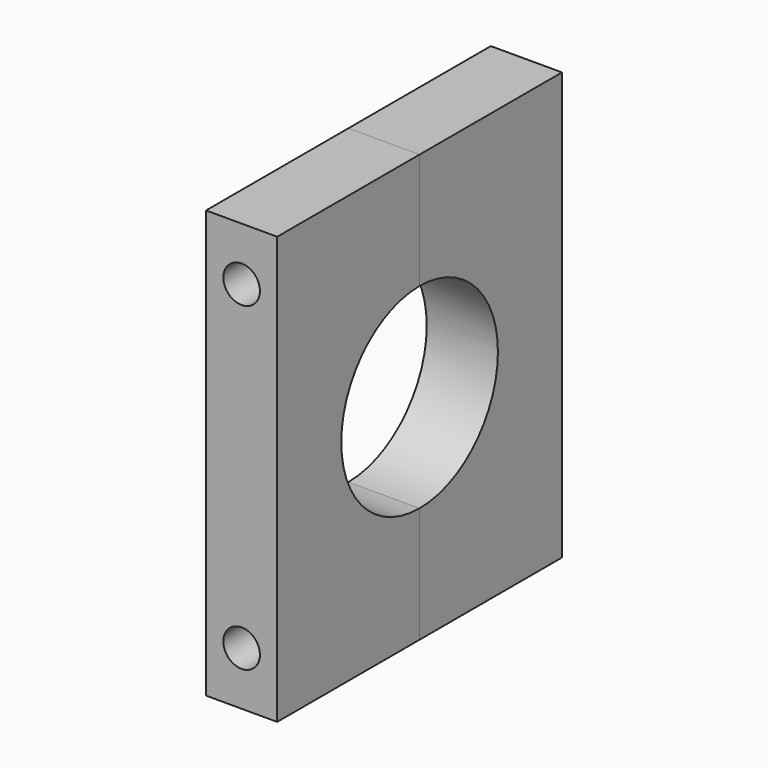
from build123d import *

# Parameters (mm, degrees)
F1_DEPTH = 6.35
F3_D     = 6.5278
F4_DEPTH = 6.35
F6_D     = 6.5278


with BuildPart() as f1:
    # F0 (on Right) → F1 (new body, symmetric)
    with BuildSketch(Plane.YZ):
        with BuildLine():
            ThreePointArc((0, 17.4625), (12.3478521665, 12.3478521665), (17.4625, 0))
            ThreePointArc((17.4625, 0), (12.3478521665, -12.3478521665), (0, -17.4625))
            Line((0, -17.4625), (0, -38.1))
            Line((0, -38.1), (31.75, -38.1))
            Line((31.75, -38.1), (31.75, 38.1))
            Line((31.75, 38.1), (0, 38.1))
            Line((0, 38.1), (0, 17.4625))
        make_face()
    extrude(amount=F1_DEPTH, both=True)

    # F3 (through all)
    with Locations(Plane.XZ):
        with Locations((0, 28.575), (0, -28.575)):
            Hole(F3_D / 2)


with BuildPart() as f4:
    # F0 (on Right) → F4 (new body, symmetric)
    with BuildSketch(Plane.YZ):
        with BuildLine():
            ThreePointArc((0, -17.4625), (-17.4625, 0), (0, 17.4625))
            Line((0, 17.4625), (0, 38.1))
            Line((0, 38.1), (-31.75, 38.1))
            Line((-31.75, 38.1), (-31.75, -38.1))
            Line((-31.75, -38.1), (0, -38.1))
            Line((0, -38.1), (0, -17.4625))
        make_face()
    extrude(amount=F4_DEPTH, both=True)

    # F6 (through all)
    with Locations(Plane.XZ.offset(31.75)):
        with Locations((0, 28.575), (0, -28.575)):
            Hole(F6_D / 2)


solid = Compound([f1.part, f4.part])
